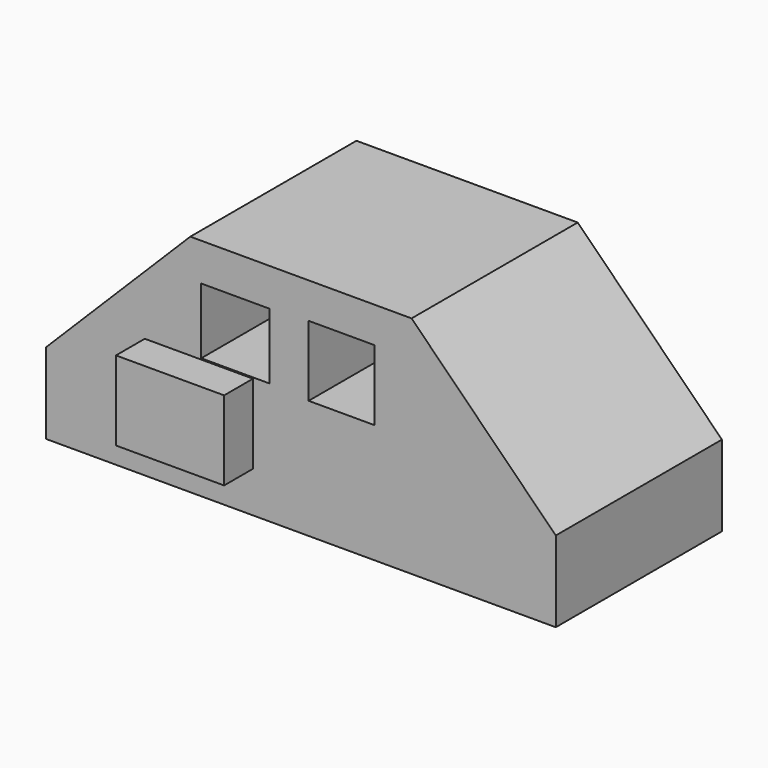
from build123d import *

# Parameters (mm, degrees)
F0_W     = 179.547206
F0_H     = 79.261191
F1_DEPTH = 73.152
F2_SIZE  = 50.8
F3_W     = 24.096457
F3_H     = 23.186842
F4_DEPTH = 286.004
F5_W     = 23.281777
F5_H     = 24.811177
F6_DEPTH = 221.742
F7_SIZE  = 50.8
F8_W     = 38.1
F8_H     = 27.94
F9_DEPTH = 12.7


with BuildPart() as f1:
    # F0 (on Front) → F1 (new body)
    with BuildSketch(Plane.XZ):
        with Locations((5.070895, 8.037225)):
            Rectangle(F0_W, F0_H)
    extrude(amount=F1_DEPTH)

    # F2
    f2_edges = [f1.edges().sort_by_distance(p)[0] for p in [
        (-84.702708, -36.576, 47.66782),
    ]]
    chamfer(f2_edges, length=F2_SIZE)

    # F3 (on face) → F4 (cut)
    with BuildSketch(Plane.XZ.offset(73.152)):
        with Locations((-18.007661, 22.801763)):
            Rectangle(F3_W, F3_H)
    extrude(amount=-F4_DEPTH, mode=Mode.SUBTRACT)

    # F5 (on face) → F6 (cut)
    with BuildSketch(Plane.XZ.offset(73.152)):
        with Locations((19.424999, 22.71818)):
            Rectangle(F5_W, F5_H)
    extrude(amount=-F6_DEPTH, mode=Mode.SUBTRACT)

    # F7
    f7_edges = [f1.edges().sort_by_distance(p)[0] for p in [
        (94.844498, -36.576, 47.66782),
    ]]
    chamfer(f7_edges, length=F7_SIZE)

    # F8 (on face) → F9 (join)
    with BuildSketch(Plane.XZ.offset(73.152)):
        with Locations((-30.878472, -3.178807)):
            Rectangle(F8_W, F8_H)
    extrude(amount=F9_DEPTH)


solid = f1.part
